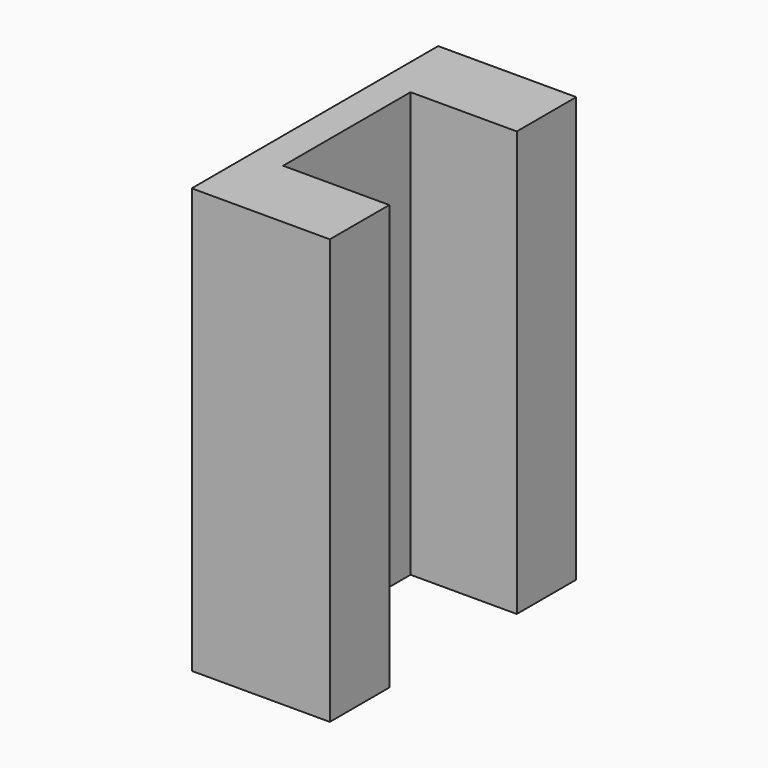
from build123d import *

# Parameters (mm, degrees)
F0_W     = 13
F0_H     = 7
F1_DEPTH = 40
F2_W     = 7
F2_H     = 40
F2_W_2   = 15
F3_DEPTH = 3
F4_W     = 13
F4_H     = 40
F5_DEPTH = 7


with BuildPart() as f1:
    # F0 (on Top) → F1 (new body)
    with BuildSketch(Plane.XY):
        with Locations((-2.989468, 1.626376)):
            Rectangle(F0_W, F0_H)
    extrude(amount=F1_DEPTH)

    # F2 (on face) → F3 (join)
    with BuildSketch(Plane(origin=(-9.489468, 0, 0), x_dir=(0, -1, 0), z_dir=(-1, 0, 0))):
        with Locations((-1.626376, 20)):
            Rectangle(F2_W, F2_H)
        with Locations((-12.626376, 20)):
            Rectangle(F2_W_2, F2_H)
    extrude(amount=-F3_DEPTH)

    # F4 (on face) → F5 (join)
    with BuildSketch(Plane(origin=(0, 20.126376, 0), x_dir=(-1, 0, 0), z_dir=(0, 1, 0))):
        with Locations((2.989468, 20)):
            Rectangle(F4_W, F4_H)
    extrude(amount=F5_DEPTH)


solid = f1.part
